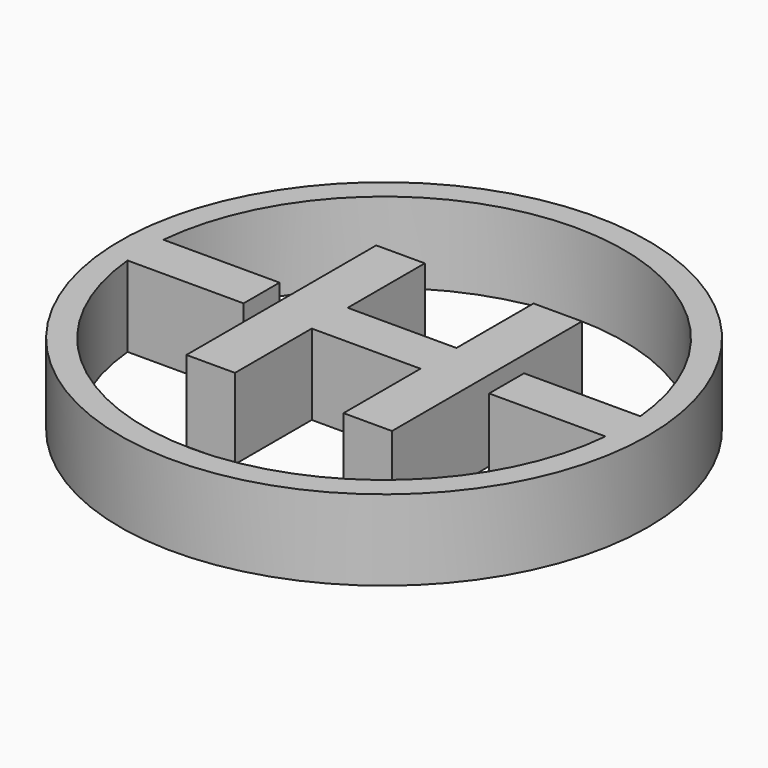
from build123d import *

# Parameters (mm, degrees)
F0_R     = 16.400052
F1_DEPTH = 5


with BuildPart() as f1:
    # F0 (on Top) → F1 (new body)
    with BuildSketch(Plane.XY):
        with Locations((0.162477, -0.214076)):
            Circle(F0_R)
        with BuildLine():
            ThreePointArc((14.991158, 1.152792), (15.038298, 0.47008), (15.054022, -0.214076))
            ThreePointArc((15.054022, -0.214076), (15.038785, -0.887567), (14.993103, -1.55968))
            ThreePointArc((14.993103, -1.55968), (0.187112, -15.105601), (-14.663615, -1.60874))
            ThreePointArc((-14.663615, -1.60874), (-14.729068, -0.213591), (-14.663524, 1.181554))
            ThreePointArc((-14.663524, 1.181554), (0.176921, 14.677462), (14.991158, 1.152792))
        make_face(mode=Mode.SUBTRACT)
        Polygon((-3.215072, -7.572618), (-3.215072, -1.60874), (3.540387, -1.60874), (3.540387, -7.585416), (6.550414, -7.585416), (6.550414, 7.16865), (3.540387, 7.16865), (3.540387, 1.181554), (-3.215072, 1.181554), (-3.215072, 7.16865), (-6.232549, 7.16865), (-6.232549, -7.572618), align=None)
        with BuildLine():
            ThreePointArc((14.993103, -1.55968), (15.038785, -0.887567), (15.054022, -0.214076))
            ThreePointArc((15.054022, -0.214076), (15.038298, 0.47008), (14.991158, 1.152792))
            Line((14.991158, 1.152792), (7.763886, 1.152792))
            Line((7.763886, 1.152792), (7.763886, -1.55968))
            Line((7.763886, -1.55968), (14.993103, -1.55968))
        make_face()
        with BuildLine():
            Line((-7.451603, 1.181554), (-14.663524, 1.181554))
            ThreePointArc((-14.663524, 1.181554), (-14.729068, -0.213591), (-14.663615, -1.60874))
            Line((-14.663615, -1.60874), (-7.451603, -1.60874))
            Line((-7.451603, -1.60874), (-7.451603, 1.181554))
        make_face()
    extrude(amount=F1_DEPTH)


solid = f1.part
